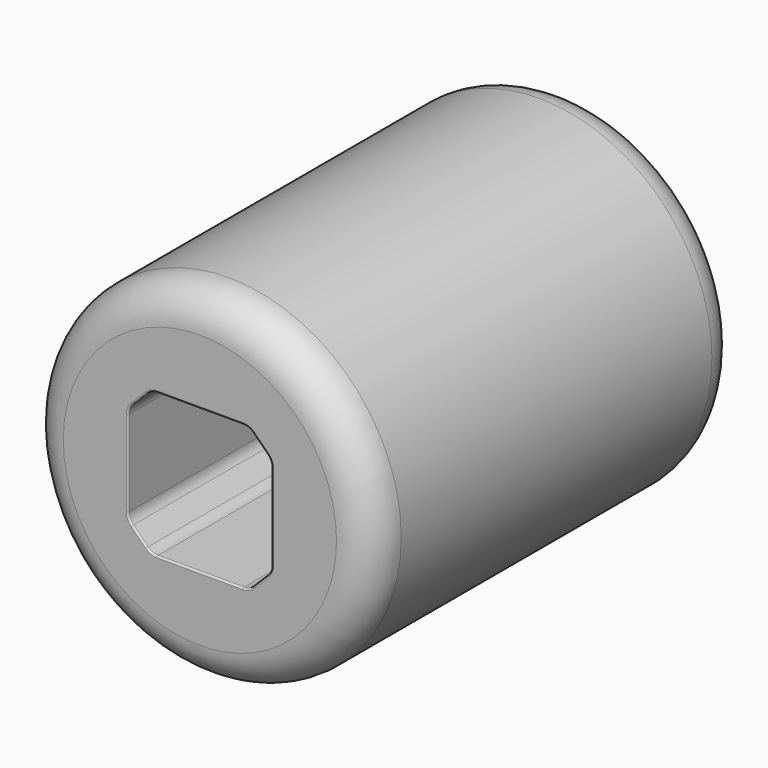
from build123d import *

# Parameters (mm, degrees)
F0_R     = 38.1
F1_DEPTH = 50.8
F2_R     = 7.9375
F3_W     = 31.75
F3_H     = 31.75
F4_DEPTH = 101.601
F5_SIZE  = 5.08
F6_R     = 3.175
F7_R     = 0.381


with BuildPart() as f1:
    # F0 (on Front) → F1 (new body, symmetric)
    with BuildSketch(Plane.XZ):
        Circle(F0_R)
    extrude(amount=F1_DEPTH, both=True)

    # F2
    f2_edges = [f1.edges().sort_by_distance(p)[0] for p in [
        (-38.1, -50.8, 0),
        (-38.1, 50.8, 0),
    ]]
    fillet(f2_edges, radius=F2_R)

    # F3 (on face) → F4 (cut, through all)
    with BuildSketch(Plane.XZ.offset(50.8)):
        Rectangle(F3_W, F3_H)
    extrude(amount=-F4_DEPTH, mode=Mode.SUBTRACT)

    # F5
    f5_edges = [f1.edges().sort_by_distance(p)[0] for p in [
        (-15.875, 0, 15.875),
        (15.875, 0, -15.875),
        (15.875, 0, 15.875),
        (-15.875, 0, -15.875),
    ]]
    chamfer(f5_edges, length=F5_SIZE)

    # F6
    f6_edges = [f1.edges().sort_by_distance(p)[0] for p in [
        (-10.795, 0, -15.875),
        (-15.875, 0, -10.795),
        (-15.875, 0, 10.795),
        (-10.795, 0, 15.875),
        (10.795, 0, 15.875),
        (15.875, 0, 10.795),
        (15.875, 0, -10.795),
        (10.795, 0, -15.875),
    ]]
    fillet(f6_edges, radius=F6_R)

    # F7
    f7_edges = [f1.edges().sort_by_distance(p)[0] for p in [
        (0, -50.8, 15.875),
        (0, 50.8, 15.875),
    ]]
    fillet(f7_edges, radius=F7_R)


solid = f1.part
